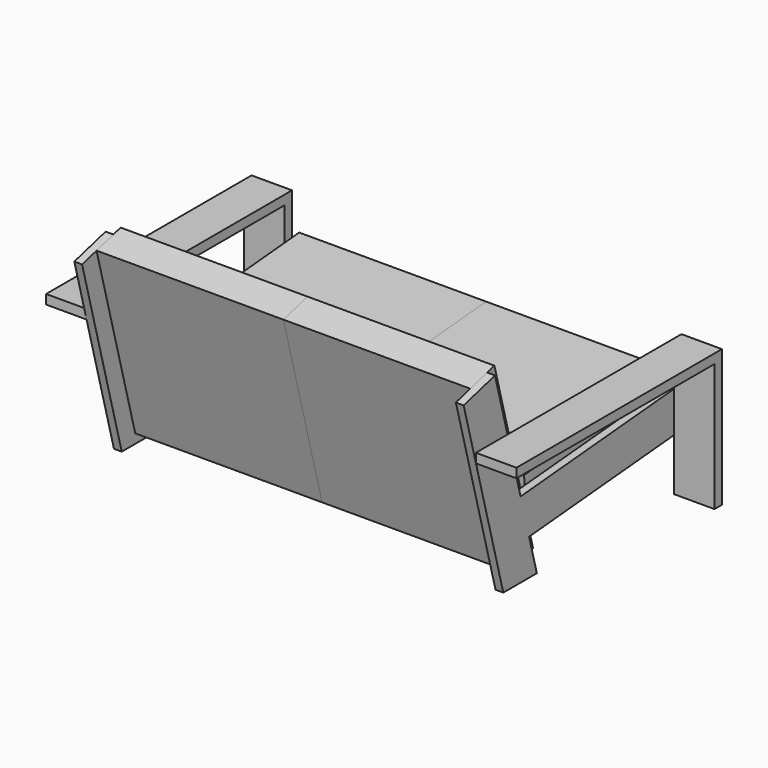
from build123d import *

# Parameters (mm, degrees)
F1_DEPTH = 600
F3_DEPTH = 600
F5_DEPTH = 25
F7_DEPTH = 130


with BuildPart() as f1:
    # F0 (on Right) → F1 (new body)
    with BuildSketch(Plane.YZ):
        Polygon((-8.715574, 99.61947), (0, 0), (597.716819, 52.293446), (589.001245, 151.912915), align=None)
        Polygon((27.568398, -122.20518), (-127.723029, 457.350316), (-224.315611, 431.468411), (-69.024184, -148.087085), align=None)
    extrude(amount=F1_DEPTH)


with BuildPart() as f3:
    # F2 (on face) → F3 (new body)
    with BuildSketch(Plane(origin=(0, 0, 0), x_dir=(0, -1, 0), z_dir=(-1, 0, 0))):
        Polygon((-597.716819, 52.293446), (0, 0), (8.715574, 99.61947), (-589.001245, 151.912915), align=None)
        Polygon((224.315611, 431.468411), (127.723029, 457.350316), (-27.568398, -122.20518), (69.024184, -148.087085), align=None)
    extrude(amount=F3_DEPTH)


with BuildPart() as f5:
    # F4 (on face) → F5 (new body)
    with BuildSketch(Plane.YZ.offset(600)):
        Polygon((-53.801513, 65.560366), (-156.700803, 449.585744), (-282.271161, 415.939269), (-123.132868, -177.972925), (11.453035, -177.972925), (-19.635986, -61.947116), align=None)
        Polygon((591.615917, 122.027075), (-53.801513, 65.560366), (-19.635986, -61.947116), (602.946163, -7.478236), align=None)
    extrude(amount=F5_DEPTH)

    # F6 (on face) → F7 (join)
    with BuildSketch(Plane.YZ.offset(625)):
        Polygon((-232.992037, 262.027075), (-232.992037, 232.027075), (561.615917, 232.027075), (561.615917, -177.972925), (591.615917, -177.972925), (591.615917, 262.027075), align=None)
    extrude(amount=F7_DEPTH)


with BuildPart() as f8_1:
    # F8: instance of F5
    add(f5.part.mirror(Plane.YZ))


solid = Compound([f1.part, f3.part, f5.part, f8_1.part])
